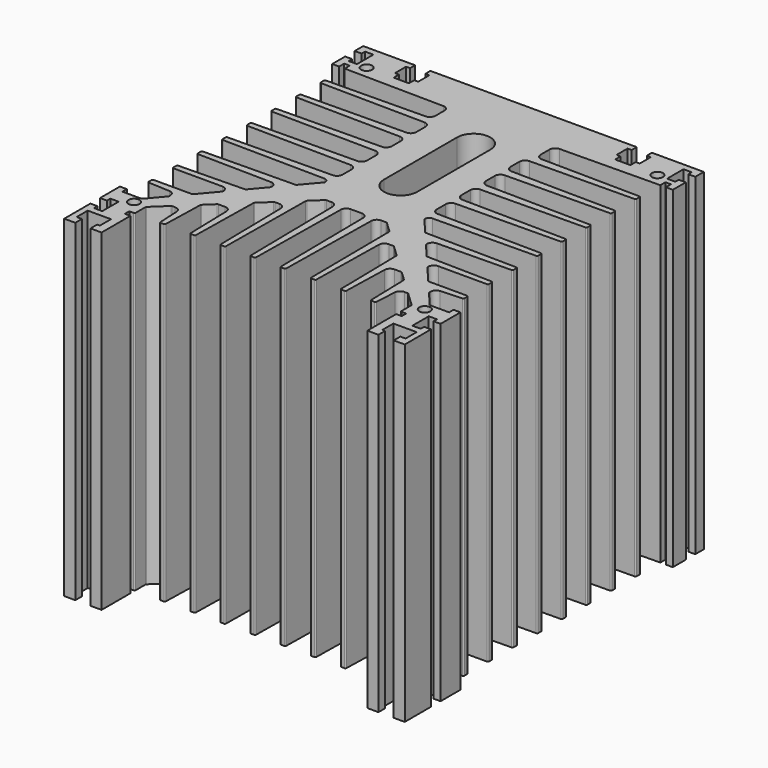
from build123d import *

# Parameters (mm, degrees)
SKETCH348_R = 2
PAD_DEPTH   = 120


with BuildPart() as part:
    # Sketch348 → Pad (new body)
    with BuildSketch(Plane.XY):
        with BuildLine():
            ThreePointArc((-56.605555, 44.624228), (-56.8848, 44.505139), (-57, 44.224267))
            Line((-57, 44.224267), (-57, 42.905663))
            ThreePointArc((-57, 42.905663), (-56.88527, 42.625269), (-56.606896, 42.505722))
            Line((-29.965522, 42.046388), (-56.606896, 42.505722))
            ThreePointArc((-28, 40.046686), (-28.573649, 41.448656), (-29.965522, 42.046388))
            Line((-28, 39.764989), (-28, 40.046686))
            ThreePointArc((-28.11877, 39.441471), (-28.030631, 39.592674), (-28, 39.764989))
            Line((-32.580128, 34.184238), (-28.11877, 39.441471))
            ThreePointArc((-32.951062, 34.007861), (-32.746648, 34.056203), (-32.580128, 34.184238))
            Line((-56.608237, 33.52057), (-32.951062, 34.007861))
            ThreePointArc((-56.608237, 33.52057), (-56.88574, 33.40057), (-57, 33.120654))
            Line((-57, 33.120654), (-57, 31.80625))
            ThreePointArc((-57, 31.80625), (-56.882843, 31.523407), (-56.6, 31.40625))
            Line((-39, 31.40625), (-56.6, 31.40625))
            ThreePointArc((-37, 29.40625), (-37.585786, 30.820464), (-39, 31.40625))
            Line((-37, 29.159453), (-37, 29.40625))
            ThreePointArc((-37.11877, 28.835936), (-37.030631, 28.987138), (-37, 29.159453))
            Line((-42.425321, 22.582733), (-37.11877, 28.835936))
            ThreePointArc((-42.806552, 22.40625), (-42.596503, 22.452511), (-42.425321, 22.582733))
            Line((-56.6, 22.40625), (-42.806552, 22.40625))
            ThreePointArc((-56.6, 22.40625), (-56.882843, 22.289093), (-57, 22.00625))
            Line((-57, 22.00625), (-57, 20.6805))
            ThreePointArc((-57, 20.6805), (-56.889819, 20.40481), (-56.619975, 20.280999))
            Line((-48.900125, 19.895006), (-56.619975, 20.280999))
            ThreePointArc((-47, 17.897502), (-47.550905, 19.275952), (-48.900125, 19.895006))
            Line((-47, 17.375524), (-47, 17.897502))
            ThreePointArc((-47.11877, 17.052007), (-47.030631, 17.203209), (-47, 17.375524))
            Line((-51.850234, 11.476483), (-47.11877, 17.052007))
            ThreePointArc((-52.231465, 11.3), (-52.021415, 11.346261), (-51.850234, 11.476483))
            Line((-59, 11.3), (-52.231465, 11.3))
            Line((-59, 13.3), (-59, 11.3))
            Line((-61.5, 13.3), (-59, 13.3))
            Line((-61.5, 4.3), (-61.5, 13.3))
            Line((-59, 4.3), (-61.5, 4.3))
            Line((-59, 5.85), (-59, 4.3))
            Line((-56, 5.85), (-59, 5.85))
            Line((-56, -1.55), (-56, 5.85))
            Line((-59, -1.55), (-56, -1.55))
            Line((-59, 0), (-59, -1.55))
            Line((-61.5, 0), (-59, 0))
            Line((-61.5, -11.85), (-61.5, 0))
            Line((-57.5, -11.85), (-61.5, -11.85))
            Line((-57.5, -11.85), (-57.5, -8.85))
            Line((-57.5, -8.85), (-59.4, -8.85))
            Line((-59.4, -8.85), (-59.4, -3.85))
            Line((-59.4, -3.85), (-51, -3.85))
            Line((-51, -3.85), (-51, -8.85))
            Line((-51, -8.85), (-52, -8.85))
            Line((-52, -8.85), (-52, -11.85))
            Line((-52, -11.85), (-48, -11.85))
            Line((-48, -11.85), (-48, 1.15))
            Line((-48, 1.15), (-50, 1.15))
            Line((-50, 1.15), (-50, 3.15))
            Line((-50, 3.15), (-48.4, 3.15))
            ThreePointArc((-48.4, 3.15), (-48.117157, 3.267157), (-48, 3.55))
            Line((-48, 3.55), (-48, 7.934712))
            ThreePointArc((-47.8436, 8.297946), (-47.959238, 8.132449), (-48, 7.934712))
            Line((-42.858867, 13.013234), (-47.8436, 8.297946))
            ThreePointArc((-42.515267, 13.15), (-42.700176, 13.114552), (-42.858867, 13.013234))
            Line((-42.515267, 13.15), (-41.402498, 13.15))
            ThreePointArc((-39.404994, 11.249875), (-40.024048, 12.599095), (-41.402498, 13.15))
            Line((-39.019001, 3.530025), (-39.404994, 11.249875))
            ThreePointArc((-39.019001, 3.530025), (-38.89519, 3.260181), (-38.6195, 3.15))
            Line((-38.6195, 3.15), (-37.514612, 3.15))
            ThreePointArc((-37.514612, 3.15), (-37.235515, 3.263461), (-37.114751, 3.539477))
            Line((-36.717896, 18.619962), (-37.114751, 3.539477))
            ThreePointArc((-36.561669, 18.970043), (-36.674666, 18.81057), (-36.717896, 18.619962))
            Line((-33.344581, 22.013234), (-36.561669, 18.970043))
            ThreePointArc((-33.000981, 22.15), (-33.18589, 22.114552), (-33.344581, 22.013234))
            Line((-33.000981, 22.15), (-30.573061, 22.15))
            ThreePointArc((-28.573753, 20.202613), (-29.177573, 21.582694), (-30.573061, 22.15))
            Line((-28.573753, 20.202613), (-28.135249, 3.539477))
            ThreePointArc((-28.135249, 3.539477), (-28.014485, 3.263461), (-27.735388, 3.15))
            Line((-27.735388, 3.15), (-26.64285, 3.15))
            ThreePointArc((-26.64285, 3.15), (-26.362569, 3.264618), (-26.242915, 3.542786))
            Line((-25.78445, 28.958362), (-26.242915, 3.542786))
            ThreePointArc((-25.628131, 29.312578), (-25.741968, 29.151215), (-25.78445, 28.958362))
            Line((-21.71601, 33.013234), (-25.628131, 29.312578))
            ThreePointArc((-21.37241, 33.15), (-21.557319, 33.114552), (-21.71601, 33.013234))
            Line((-21.37241, 33.15), (-19.716944, 33.15))
            ThreePointArc((-17.717222, 31.183329), (-18.314564, 32.575948), (-19.716944, 33.15))
            Line((-17.717222, 31.183329), (-17.256556, 3.543334))
            ThreePointArc((-17.256556, 3.543334), (-17.137087, 3.26481), (-16.856611, 3.15))
            Line((-16.856611, 3.15), (-15.771265, 3.15))
            ThreePointArc((-15.771265, 3.15), (-15.489752, 3.265834), (-15.371282, 3.546247))
            Line((-15.037535, 39.120092), (-15.371282, 3.546247))
            ThreePointArc((-14.881157, 39.478635), (-14.995863, 39.31529), (-15.037535, 39.120092))
            Line((-11.144581, 43.013234), (-14.881157, 39.478635))
            ThreePointArc((-10.800981, 43.15), (-10.98589, 43.114552), (-11.144581, 43.013234))
            Line((-8.968994, 43.15), (-10.800981, 43.15))
            ThreePointArc((-6.969238, 41.181246), (-7.565871, 42.575218), (-8.968994, 43.15))
            Line((-6.969238, 41.181246), (-6.381152, 3.543751))
            ThreePointArc((-6.381152, 3.543751), (-6.261826, 3.264956), (-5.981201, 3.15))
            Line((-5.981201, 3.15), (-4.895031, 3.15))
            ThreePointArc((-4.895031, 3.15), (-4.613962, 3.265395), (-4.495062, 3.545))
            Line((-4.024688, 41.174998), (-4.495062, 3.545))
            ThreePointArc((-2.024844, 43.15), (-3.430191, 42.573024), (-4.024688, 41.174998))
            Line((-2.024844, 43.15), (2.024844, 43.15))
            ThreePointArc((4.024688, 41.174998), (3.430191, 42.573024), (2.024844, 43.15))
            Line((4.024688, 41.174998), (4.495062, 3.545))
            ThreePointArc((4.495062, 3.545), (4.613962, 3.265395), (4.895031, 3.15))
            Line((4.895031, 3.15), (5.981201, 3.15))
            ThreePointArc((5.981201, 3.15), (6.261826, 3.264956), (6.381152, 3.543751))
            Line((6.969238, 41.181246), (6.381152, 3.543751))
            ThreePointArc((8.968994, 43.15), (7.565871, 42.575218), (6.969238, 41.181246))
            Line((8.968994, 43.15), (10.800981, 43.15))
            ThreePointArc((11.144581, 43.013234), (10.98589, 43.114552), (10.800981, 43.15))
            Line((11.144581, 43.013234), (14.881157, 39.478635))
            ThreePointArc((15.037535, 39.120092), (14.995863, 39.31529), (14.881157, 39.478635))
            Line((15.037535, 39.120092), (15.371282, 3.546247))
            ThreePointArc((15.371282, 3.546247), (15.489752, 3.265834), (15.771265, 3.15))
            Line((15.771265, 3.15), (16.856611, 3.15))
            ThreePointArc((16.856611, 3.15), (17.137087, 3.26481), (17.256556, 3.543334))
            Line((17.717222, 31.183329), (17.256556, 3.543334))
            ThreePointArc((19.716944, 33.15), (18.314564, 32.575948), (17.717222, 31.183329))
            Line((21.37241, 33.15), (19.716944, 33.15))
            ThreePointArc((21.71601, 33.013234), (21.557319, 33.114552), (21.37241, 33.15))
            Line((21.71601, 33.013234), (25.628131, 29.312578))
            ThreePointArc((25.78445, 28.958362), (25.741968, 29.151215), (25.628131, 29.312578))
            Line((25.78445, 28.958362), (26.242915, 3.542786))
            ThreePointArc((26.242915, 3.542786), (26.362569, 3.264618), (26.64285, 3.15))
            Line((26.64285, 3.15), (27.735388, 3.15))
            ThreePointArc((27.735388, 3.15), (28.014485, 3.263461), (28.135249, 3.539477))
            Line((28.573753, 20.202613), (28.135249, 3.539477))
            ThreePointArc((30.573061, 22.15), (29.177573, 21.582694), (28.573753, 20.202613))
            Line((30.573061, 22.15), (33.000981, 22.15))
            ThreePointArc((33.344581, 22.013234), (33.18589, 22.114552), (33.000981, 22.15))
            Line((33.344581, 22.013234), (36.561669, 18.970043))
            ThreePointArc((36.717896, 18.619962), (36.674666, 18.81057), (36.561669, 18.970043))
            Line((36.717896, 18.619962), (37.114751, 3.539477))
            ThreePointArc((37.114751, 3.539477), (37.235515, 3.263461), (37.514612, 3.15))
            Line((37.514612, 3.15), (38.6195, 3.15))
            ThreePointArc((38.6195, 3.15), (38.89519, 3.260181), (39.019001, 3.530025))
            Line((39.019001, 3.530025), (39.404994, 11.249875))
            ThreePointArc((41.402498, 13.15), (40.024048, 12.599095), (39.404994, 11.249875))
            Line((42.515267, 13.15), (41.402498, 13.15))
            ThreePointArc((42.858867, 13.013234), (42.700176, 13.114552), (42.515267, 13.15))
            Line((42.858867, 13.013234), (47.8436, 8.297946))
            ThreePointArc((48, 7.934712), (47.959238, 8.132449), (47.8436, 8.297946))
            Line((48, 3.55), (48, 7.934712))
            ThreePointArc((48, 3.55), (48.117157, 3.267157), (48.4, 3.15))
            Line((48.4, 3.15), (50, 3.15))
            Line((50, 1.15), (50, 3.15))
            Line((48, 1.15), (50, 1.15))
            Line((48, -11.85), (48, 1.15))
            Line((52, -11.85), (48, -11.85))
            Line((52, -8.85), (52, -11.85))
            Line((51, -8.85), (52, -8.85))
            Line((51, -3.85), (51, -8.85))
            Line((59.4, -3.85), (51, -3.85))
            Line((59.4, -8.85), (59.4, -3.85))
            Line((57.5, -8.85), (59.4, -8.85))
            Line((57.5, -11.85), (57.5, -8.85))
            Line((57.5, -11.85), (61.5, -11.85))
            Line((61.5, -11.85), (61.5, 0))
            Line((61.5, 0), (59, 0))
            Line((59, 0), (59, -1.55))
            Line((59, -1.55), (56, -1.55))
            Line((56, -1.55), (56, 5.85))
            Line((56, 5.85), (59, 5.85))
            Line((59, 5.85), (59, 4.3))
            Line((59, 4.3), (61.5, 4.3))
            Line((61.5, 4.3), (61.5, 13.3))
            Line((61.5, 13.3), (59, 13.3))
            Line((59, 13.3), (59, 11.3))
            Line((59, 11.3), (52.231465, 11.3))
            ThreePointArc((51.850234, 11.476483), (52.021415, 11.346261), (52.231465, 11.3))
            Line((47.11877, 17.052007), (51.850234, 11.476483))
            ThreePointArc((47, 17.375524), (47.030631, 17.203209), (47.11877, 17.052007))
            Line((47, 17.897502), (47, 17.375524))
            ThreePointArc((48.900125, 19.895006), (47.550905, 19.275952), (47, 17.897502))
            Line((56.619975, 20.280999), (48.900125, 19.895006))
            ThreePointArc((56.619975, 20.280999), (56.889819, 20.40481), (57, 20.6805))
            Line((57, 22.00625), (57, 20.6805))
            ThreePointArc((57, 22.00625), (56.882843, 22.289093), (56.6, 22.40625))
            Line((42.806552, 22.40625), (56.6, 22.40625))
            ThreePointArc((42.425321, 22.582733), (42.596503, 22.452511), (42.806552, 22.40625))
            Line((37.11877, 28.835936), (42.425321, 22.582733))
            ThreePointArc((37, 29.159453), (37.030631, 28.987138), (37.11877, 28.835936))
            Line((37, 29.40625), (37, 29.159453))
            ThreePointArc((39, 31.40625), (37.585786, 30.820464), (37, 29.40625))
            Line((56.6, 31.40625), (39, 31.40625))
            ThreePointArc((56.6, 31.40625), (56.882843, 31.523407), (57, 31.80625))
            Line((57, 33.120654), (57, 31.80625))
            ThreePointArc((57, 33.120654), (56.88574, 33.40057), (56.608237, 33.52057))
            Line((32.951062, 34.007861), (56.608237, 33.52057))
            ThreePointArc((32.580128, 34.184238), (32.746648, 34.056203), (32.951062, 34.007861))
            Line((28.11877, 39.441471), (32.580128, 34.184238))
            ThreePointArc((28, 39.764989), (28.030631, 39.592674), (28.11877, 39.441471))
            Line((28, 40.046686), (28, 39.764989))
            ThreePointArc((29.965522, 42.046388), (28.573649, 41.448656), (28, 40.046686))
            Line((56.606896, 42.505722), (29.965522, 42.046388))
            ThreePointArc((56.606896, 42.505722), (56.88527, 42.625269), (57, 42.905663))
            Line((57, 44.224267), (57, 42.905663))
            ThreePointArc((57, 44.224267), (56.8848, 44.505139), (56.605555, 44.624228))
            Line((23.555642, 45.083251), (56.605555, 44.624228))
            ThreePointArc((23.181355, 45.259685), (23.34939, 45.130933), (23.555642, 45.083251))
            Line((18.11877, 51.2254), (23.181355, 45.259685))
            ThreePointArc((18, 51.548917), (18.030631, 51.376602), (18.11877, 51.2254))
            Line((18, 51.637858), (18, 51.548917))
            ThreePointArc((19.480771, 53.137734), (18.432563, 52.691697), (18, 51.637858))
            Line((56.605128, 53.613688), (19.480771, 53.137734))
            ThreePointArc((56.605128, 53.613688), (56.88465, 53.732631), (57, 54.013655))
            Line((57, 55.329969), (57, 54.013655))
            ThreePointArc((57, 55.329969), (56.884605, 55.611038), (56.605, 55.729938))
            Line((18.975002, 56.200312), (56.605, 55.729938))
            ThreePointArc((17, 58.200156), (17.576976, 56.794809), (18.975002, 56.200312))
            Line((17, 62.249844), (17, 58.200156))
            ThreePointArc((18.975002, 64.249688), (17.576976, 63.655191), (17, 62.249844))
            Line((56.605, 64.720062), (18.975002, 64.249688))
            ThreePointArc((56.605, 64.720062), (56.884605, 64.838962), (57, 65.120031))
            Line((57, 66.436219), (57, 65.120031))
            ThreePointArc((57, 66.436219), (56.884605, 66.717288), (56.605, 66.836188))
            Line((18.975002, 67.306562), (56.605, 66.836188))
            ThreePointArc((17, 69.306406), (17.576976, 67.901059), (18.975002, 67.306562))
            Line((17, 73.356094), (17, 69.306406))
            ThreePointArc((18.975002, 75.355938), (17.576976, 74.761441), (17, 73.356094))
            Line((56.605, 75.826312), (18.975002, 75.355938))
            ThreePointArc((56.605, 75.826312), (56.884605, 75.945212), (57, 76.226281))
            Line((57, 77.542469), (57, 76.226281))
            ThreePointArc((57, 77.542469), (56.884605, 77.823538), (56.605, 77.942438))
            Line((18.975002, 78.412812), (56.605, 77.942438))
            ThreePointArc((17, 80.412656), (17.576976, 79.007309), (18.975002, 78.412812))
            Line((17, 84.462344), (17, 80.412656))
            ThreePointArc((18.975002, 86.462188), (17.576976, 85.867691), (17, 84.462344))
            Line((56.605, 86.932562), (18.975002, 86.462188))
            ThreePointArc((56.605, 86.932562), (56.884605, 87.051462), (57, 87.332531))
            Line((57, 88.648719), (57, 87.332531))
            ThreePointArc((57, 88.648719), (56.884605, 88.929788), (56.605, 89.048688))
            Line((18.975002, 89.519062), (56.605, 89.048688))
            ThreePointArc((17, 91.518906), (17.576976, 90.113559), (18.975002, 89.519062))
            Line((17, 95.568594), (17, 91.518906))
            ThreePointArc((18.975002, 97.568438), (17.576976, 96.973941), (17, 95.568594))
            Line((56.605, 98.038812), (18.975002, 97.568438))
            ThreePointArc((56.605, 98.038812), (56.884605, 98.157712), (57, 98.438781))
            Line((57, 99.755229), (57, 98.438781))
            ThreePointArc((57, 99.755229), (56.884697, 100.036204), (56.605263, 100.155194))
            Line((20.973686, 100.62403), (56.605263, 100.155194))
            ThreePointArc((19, 102.623857), (19.576514, 101.218978), (20.973686, 100.62403))
            Line((19, 106.676143), (19, 102.623857))
            ThreePointArc((20.973686, 108.67597), (19.576514, 108.081022), (19, 106.676143))
            Line((57, 109.15), (20.973686, 108.67597))
            Line((57, 111.45), (57, 109.15))
            Line((59, 111.45), (57, 111.45))
            Line((59, 109.15), (59, 111.45))
            Line((61.5, 109.15), (59, 109.15))
            Line((61.5, 115), (61.5, 109.15))
            Line((59, 115), (61.5, 115))
            Line((59, 113.45), (59, 115))
            Line((56, 113.45), (59, 113.45))
            Line((56, 120.85), (56, 113.45))
            Line((59, 120.85), (56, 120.85))
            Line((59, 119.3), (59, 120.85))
            Line((61.5, 119.3), (59, 119.3))
            Line((61.5, 123.15), (61.5, 119.3))
            Line((61.5, 123.15), (42.75, 123.15))
            Line((42.75, 123.15), (42.75, 120.85))
            Line((42.75, 120.85), (44.2, 120.85))
            Line((44.2, 120.85), (44.2, 115.85))
            Line((44.2, 115.85), (42.75, 115.85))
            Line((42.75, 115.85), (42.75, 113.45))
            Line((42.75, 113.45), (37.25, 113.45))
            Line((37.25, 113.45), (37.25, 115.85))
            Line((37.25, 115.85), (35.8, 115.85))
            Line((35.8, 115.85), (35.8, 120.85))
            Line((35.8, 120.85), (37.25, 120.85))
            Line((37.25, 120.85), (37.25, 123.15))
            Line((37.25, 123.15), (-37.25, 123.15))
            Line((-37.25, 120.85), (-37.25, 123.15))
            Line((-35.8, 120.85), (-37.25, 120.85))
            Line((-35.8, 115.85), (-35.8, 120.85))
            Line((-37.25, 115.85), (-35.8, 115.85))
            Line((-37.25, 113.45), (-37.25, 115.85))
            Line((-42.75, 113.45), (-37.25, 113.45))
            Line((-42.75, 115.85), (-42.75, 113.45))
            Line((-44.2, 115.85), (-42.75, 115.85))
            Line((-44.2, 120.85), (-44.2, 115.85))
            Line((-42.75, 120.85), (-44.2, 120.85))
            Line((-42.75, 123.15), (-42.75, 120.85))
            Line((-61.5, 123.15), (-42.75, 123.15))
            Line((-61.5, 123.15), (-61.5, 119.3))
            Line((-61.5, 119.3), (-59, 119.3))
            Line((-59, 119.3), (-59, 120.85))
            Line((-59, 120.85), (-56, 120.85))
            Line((-56, 120.85), (-56, 113.45))
            Line((-56, 113.45), (-59, 113.45))
            Line((-59, 113.45), (-59, 115))
            Line((-59, 115), (-61.5, 115))
            Line((-61.5, 115), (-61.5, 109.15))
            Line((-61.5, 109.15), (-59, 109.15))
            Line((-59, 109.15), (-59, 111.45))
            Line((-59, 111.45), (-57, 111.45))
            Line((-57, 111.45), (-57, 109.15))
            Line((-20.973686, 108.67597), (-57, 109.15))
            ThreePointArc((-19, 106.676143), (-19.576514, 108.081022), (-20.973686, 108.67597))
            Line((-19, 102.623857), (-19, 106.676143))
            ThreePointArc((-20.973686, 100.62403), (-19.576514, 101.218978), (-19, 102.623857))
            Line((-56.605263, 100.155194), (-20.973686, 100.62403))
            ThreePointArc((-56.605263, 100.155194), (-56.884697, 100.036204), (-57, 99.755229))
            Line((-57, 99.755229), (-57, 98.438781))
            ThreePointArc((-57, 98.438781), (-56.884605, 98.157712), (-56.605, 98.038812))
            Line((-18.975002, 97.568438), (-56.605, 98.038812))
            ThreePointArc((-17, 95.568594), (-17.576976, 96.973941), (-18.975002, 97.568438))
            Line((-17, 91.518906), (-17, 95.568594))
            ThreePointArc((-18.975002, 89.519062), (-17.576976, 90.113559), (-17, 91.518906))
            Line((-56.605, 89.048688), (-18.975002, 89.519062))
            ThreePointArc((-56.605, 89.048688), (-56.884605, 88.929788), (-57, 88.648719))
            Line((-57, 88.648719), (-57, 87.332531))
            ThreePointArc((-57, 87.332531), (-56.884605, 87.051462), (-56.605, 86.932562))
            Line((-18.975002, 86.462188), (-56.605, 86.932562))
            ThreePointArc((-17, 84.462344), (-17.576976, 85.867691), (-18.975002, 86.462188))
            Line((-17, 80.412656), (-17, 84.462344))
            ThreePointArc((-18.975002, 78.412812), (-17.576976, 79.007309), (-17, 80.412656))
            Line((-56.605, 77.942438), (-18.975002, 78.412812))
            ThreePointArc((-56.605, 77.942438), (-56.884605, 77.823538), (-57, 77.542469))
            Line((-57, 77.542469), (-57, 76.226281))
            ThreePointArc((-57, 76.226281), (-56.884605, 75.945212), (-56.605, 75.826312))
            Line((-18.975002, 75.355938), (-56.605, 75.826312))
            ThreePointArc((-17, 73.356094), (-17.576976, 74.761441), (-18.975002, 75.355938))
            Line((-17, 69.306406), (-17, 73.356094))
            ThreePointArc((-18.975002, 67.306562), (-17.576976, 67.901059), (-17, 69.306406))
            Line((-56.605, 66.836188), (-18.975002, 67.306562))
            ThreePointArc((-56.605, 66.836188), (-56.884605, 66.717288), (-57, 66.436219))
            Line((-57, 66.436219), (-57, 65.120031))
            ThreePointArc((-57, 65.120031), (-56.884605, 64.838962), (-56.605, 64.720062))
            Line((-18.975002, 64.249688), (-56.605, 64.720062))
            ThreePointArc((-17, 62.249844), (-17.576976, 63.655191), (-18.975002, 64.249688))
            Line((-17, 58.200156), (-17, 62.249844))
            ThreePointArc((-18.975002, 56.200312), (-17.576976, 56.794809), (-17, 58.200156))
            Line((-56.605, 55.729938), (-18.975002, 56.200312))
            ThreePointArc((-56.605, 55.729938), (-56.884605, 55.611038), (-57, 55.329969))
            Line((-57, 55.329969), (-57, 54.013655))
            ThreePointArc((-57, 54.013655), (-56.88465, 53.732631), (-56.605128, 53.613688))
            Line((-19.480771, 53.137734), (-56.605128, 53.613688))
            ThreePointArc((-18, 51.637858), (-18.432563, 52.691697), (-19.480771, 53.137734))
            Line((-18, 51.548917), (-18, 51.637858))
            ThreePointArc((-18.11877, 51.2254), (-18.030631, 51.376602), (-18, 51.548917))
            Line((-23.181355, 45.259685), (-18.11877, 51.2254))
            ThreePointArc((-23.555642, 45.083251), (-23.34939, 45.130933), (-23.181355, 45.259685))
            Line((-56.605555, 44.624228), (-23.555642, 45.083251))
        make_face()
        with Locations((-52.5, 8.45)):
            Circle(SKETCH348_R, mode=Mode.SUBTRACT)
        with Locations((52.5, 8.45)):
            Circle(SKETCH348_R, mode=Mode.SUBTRACT)
        with Locations((-52.5, 113.45)):
            Circle(SKETCH348_R, mode=Mode.SUBTRACT)
        with Locations((52.5, 113.45)):
            Circle(SKETCH348_R, mode=Mode.SUBTRACT)
        with BuildLine():
            ThreePointArc((6, 96.15), (0, 102.15), (-6, 96.15))
            Line((-6, 96.15), (-6, 63.15))
            ThreePointArc((-6, 63.15), (0, 57.15), (6, 63.15))
            Line((6, 63.15), (6, 96.15))
        make_face(mode=Mode.SUBTRACT)
    extrude(amount=PAD_DEPTH)


solid = part.part
